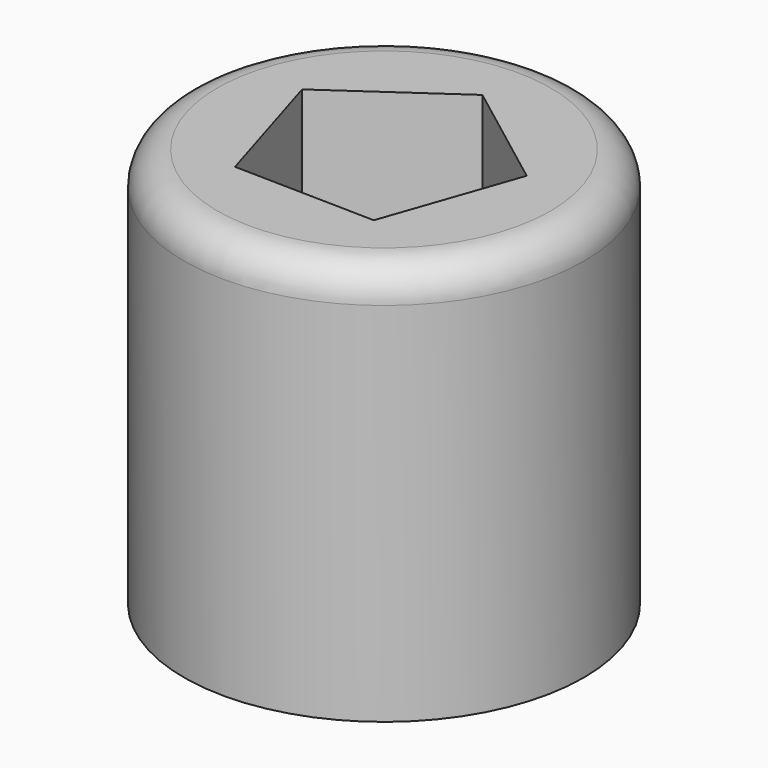
from build123d import *

# Parameters (mm, degrees)
F0_R     = 38.1
F1_DEPTH = 76.2
F3_DEPTH = 76.201
F4_R     = 6.35


with BuildPart() as f1:
    # F0 (on Top) → F1 (new body)
    with BuildSketch(Plane.XY):
        Circle(F0_R)
    extrude(amount=F1_DEPTH)

    # F2 (on face) → F3 (cut, through all)
    with BuildSketch(Plane.XY.offset(76.2)):
        Polygon((0.456082, 22.861894), (-21.602016, 7.498473), (-13.806862, -18.227582), (13.068906, -18.763739), (21.88389, 6.630954), align=None)
    extrude(amount=-F3_DEPTH, mode=Mode.SUBTRACT)

    # F4
    f4_edges = [f1.edges().sort_by_distance(p)[0] for p in [
        (-38.1, 0, 76.2),
    ]]
    fillet(f4_edges, radius=F4_R)


solid = f1.part
